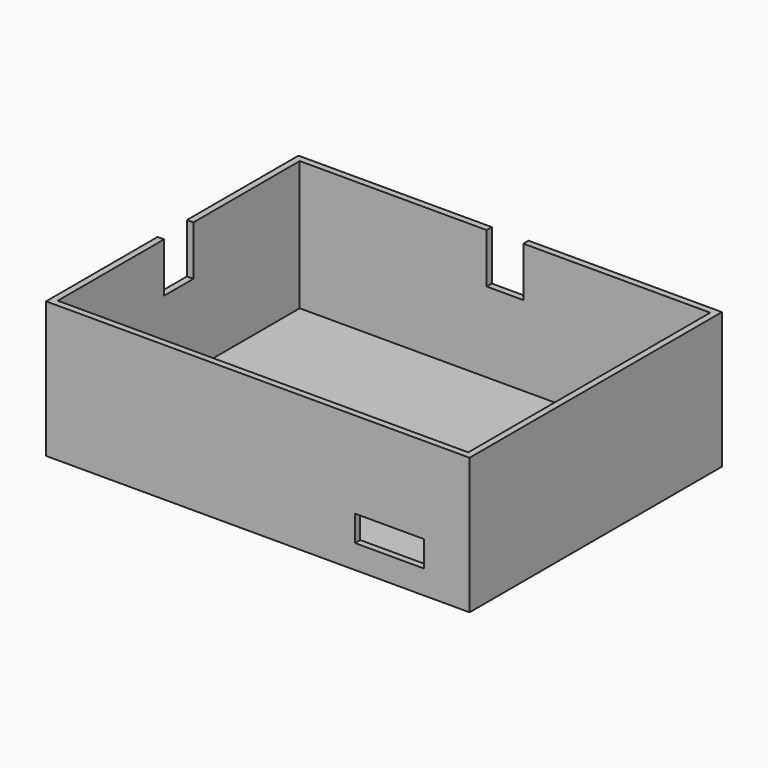
from build123d import *

# Parameters (mm, degrees)
F0_R      = 2.921
F1_DEPTH  = 16.002
F2_T      = -0.762
F3_D      = 6.858
F4_D      = 5.08
F5_W      = 8.128
F5_H      = 3.048
F6_DEPTH  = 25.4
F8_DEPTH  = 25.4
F10_DEPTH = 25.4


with BuildPart() as f1:
    # F0 (on Top) → F1 (new body)
    with BuildSketch(Plane.XY):
        Polygon((24.892, -18.542), (24.892, 18.542), (-24.892, 18.542), (-24.892, 0), (-24.892, -18.542), align=None)
        with BuildLine():
            ThreePointArc((-12.573, 0), (-16.383, -3.81), (-20.193, 0))
            ThreePointArc((-20.193, 0), (-16.383, 3.81), (-12.573, 0))
        make_face(mode=Mode.SUBTRACT)
        Circle(F0_R, mode=Mode.SUBTRACT)
        with BuildLine():
            ThreePointArc((-12.573, 0), (-16.383, 3.81), (-20.193, 0))
            ThreePointArc((-20.193, 0), (-16.383, -3.81), (-12.573, 0))
        make_face()
        Circle(F0_R)
    extrude(amount=F1_DEPTH)

    # F2
    f2_openings = [f1.faces().sort_by_distance(p)[0] for p in [
        (0, 0, 16.002),
    ]]
    offset(amount=F2_T, openings=f2_openings)

    # F3 (through all)
    with Locations(Plane(origin=(0, 0, 0), x_dir=(1, 0, 0), z_dir=(0, 0, -1))):
        with Locations((-16.383, 0)):
            Hole(F3_D / 2)

    # F4 (through all)
    with Locations(Plane(origin=(0, 0, 0), x_dir=(1, 0, 0), z_dir=(0, 0, -1))):
        with Locations((0, 0)):
            Hole(F4_D / 2)

    # F5 (on face) → F6 (cut)
    with BuildSketch(Plane.XZ.offset(18.542)):
        with Locations((15.494, 4.318)):
            Rectangle(F5_W, F5_H)
    extrude(amount=-F6_DEPTH, mode=Mode.SUBTRACT)

    # F7 (on face) → F8 (cut)
    with BuildSketch(Plane(origin=(0, 18.542, 0), x_dir=(-1, 0, 0), z_dir=(0, 1, 0))):
        Polygon((2.159, 10.16), (2.159, 16.002), (0, 16.002), (-2.159, 16.002), (-2.159, 10.16), align=None)
    extrude(amount=-F8_DEPTH, mode=Mode.SUBTRACT)

    # F9 (on face) → F10 (cut)
    with BuildSketch(Plane(origin=(-24.892, 0, 0), x_dir=(0, -1, 0), z_dir=(-1, 0, 0))):
        Polygon((2.159, 10.16), (2.159, 16.002), (0, 16.002), (-2.159, 16.002), (-2.159, 10.16), align=None)
    extrude(amount=-F10_DEPTH, mode=Mode.SUBTRACT)


solid = f1.part
